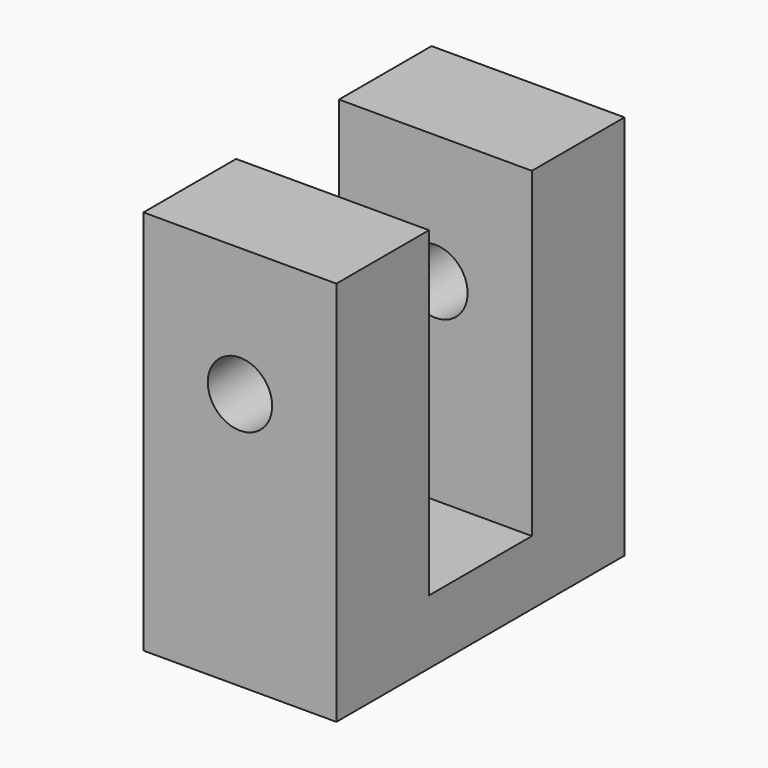
from build123d import *

# Parameters (mm, degrees)
F1_DEPTH = 19.05
F3_D     = 6.35
F4_R     = 3.175
F5_DEPTH = 12.7


with BuildPart() as f1:
    # F0 (on Right) → F1 (new body)
    with BuildSketch(Plane.YZ):
        Polygon((-17.808609, 38.1), (-17.808609, 0), (17.751391, 0), (17.751391, 38.1), (6.321391, 38.1), (6.321391, 6.35), (-6.378609, 6.35), (-6.378609, 38.1), align=None)
    extrude(amount=F1_DEPTH)

    # F3 (through all)
    with Locations(Plane(origin=(0, 17.751391, 0), x_dir=(-1, 0, 0), z_dir=(0, 1, 0))):
        with Locations((-9.525, 25.4)):
            Hole(F3_D / 2)

    # F4 (on face) → F5 (cut)
    with BuildSketch(Plane(origin=(0, 0, 0), x_dir=(1, 0, 0), z_dir=(0, 0, -1))):
        with Locations((6.35, 13.236609)):
            Circle(F4_R)
        with Locations((6.35, -13.179391)):
            Circle(F4_R)
    extrude(amount=-F5_DEPTH, mode=Mode.SUBTRACT)


solid = f1.part
